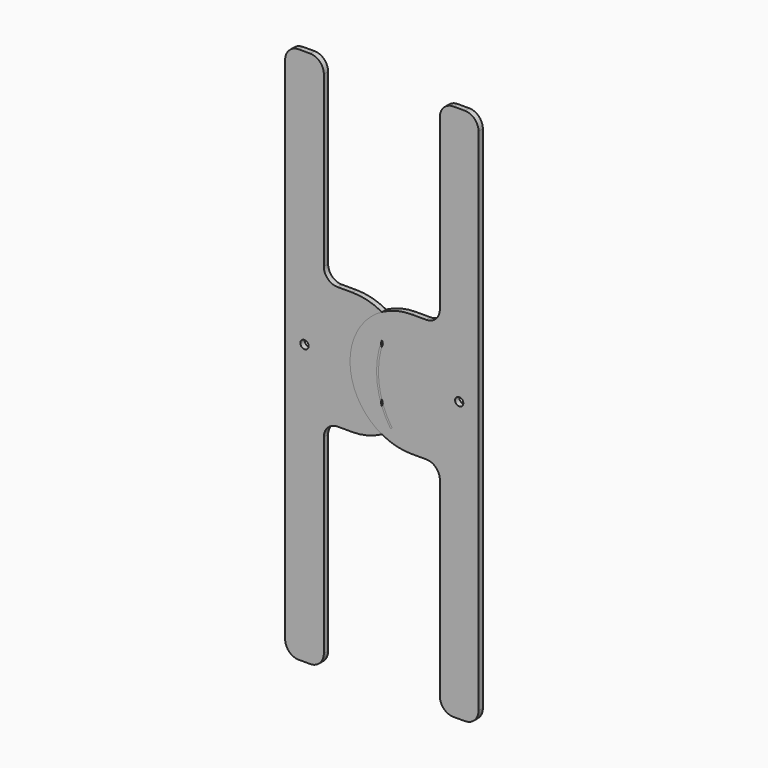
from build123d import *

# Parameters (mm, degrees)
F0_R     = 0.769031
F1_DEPTH = 1
F2_R     = 11.43
F3_R     = 2.54


with BuildPart() as f1:
    # F0 (on Front) → F1 (new body)
    with BuildSketch(Plane.XZ):
        Polygon((-10.795, 59.452113), (-17.991666, 59.452113), (-17.991666, -40.547887), (-10.795, -40.547887), (-10.795, 0), (5.926669, 0), (5.926669, 22.860002), (-10.795, 22.860002), align=None)
        with Locations((-14.393333, 11.430001)):
            Circle(F0_R, mode=Mode.SUBTRACT)
        with BuildLine():
            Line((-0.331232, 16.737692), (0, 16.862715))
            ThreePointArc((0, 16.862715), (0.88959, 9.665159), (-1.61703, 2.859791))
            Line((-1.61703, 2.859791), (-1.91105, 3.057015))
            ThreePointArc((-1.91105, 3.057015), (0.537887, 9.705773), (-0.331232, 16.737692))
        make_face(mode=Mode.SUBTRACT)
    extrude(amount=F1_DEPTH)

    # F2
    f2_edges = [f1.edges().sort_by_distance(p)[0] for p in [
        (5.926669, -0.5, 0),
        (5.926669, -0.5, 22.860002),
    ]]
    fillet(f2_edges, radius=F2_R)

    # F3
    f3_edges = [f1.edges().sort_by_distance(p)[0] for p in [
        (-10.795, -0.5, -40.547887),
        (-17.991666, -0.5, -40.547887),
        (-10.795, -0.5, 0),
        (-10.795, -0.5, 22.860002),
        (-10.795, -0.5, 59.452113),
        (-17.991666, -0.5, 59.452113),
    ]]
    fillet(f3_edges, radius=F3_R)


with BuildPart() as f4_1:
    # F4: instance of F1
    add(f1.part.mirror(Plane.YZ))


solid = Compound([f1.part, f4_1.part])
